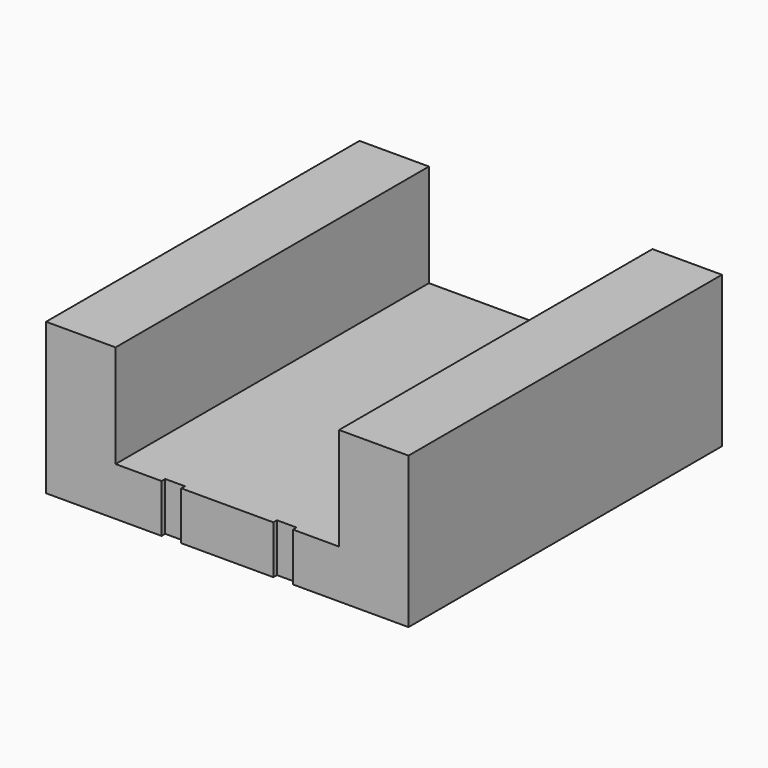
from build123d import *

# Parameters (mm, degrees)
F1_DEPTH = 8.128
F0_W     = 11.684
F0_H     = 65.8876
F2_DEPTH = 25.4


with BuildPart() as f1:
    # F0 (on Top) → F1 (new body)
    with BuildSketch(Plane.XY):
        Polygon((18.796, -32.9438), (18.796, 32.9438), (1.651, 32.9438), (1.651, 32.1818), (-1.651, 32.1818), (-1.651, 32.9438), (-18.796, 32.9438), (-18.796, -32.9438), (-11.049, -32.9438), (-11.049, -32.1818), (-7.747, -32.1818), (-7.747, -32.9438), (7.747, -32.9438), (7.747, -32.1818), (11.049, -32.1818), (11.049, -32.9438), align=None)
    extrude(amount=F1_DEPTH)

    # F0 (on Top) → F2 (join)
    with BuildSketch(Plane.XY):
        with Locations((-24.638, 0)):
            Rectangle(F0_W, F0_H)
        with Locations((24.638, 0)):
            Rectangle(F0_W, F0_H)
    extrude(amount=F2_DEPTH)


solid = f1.part
